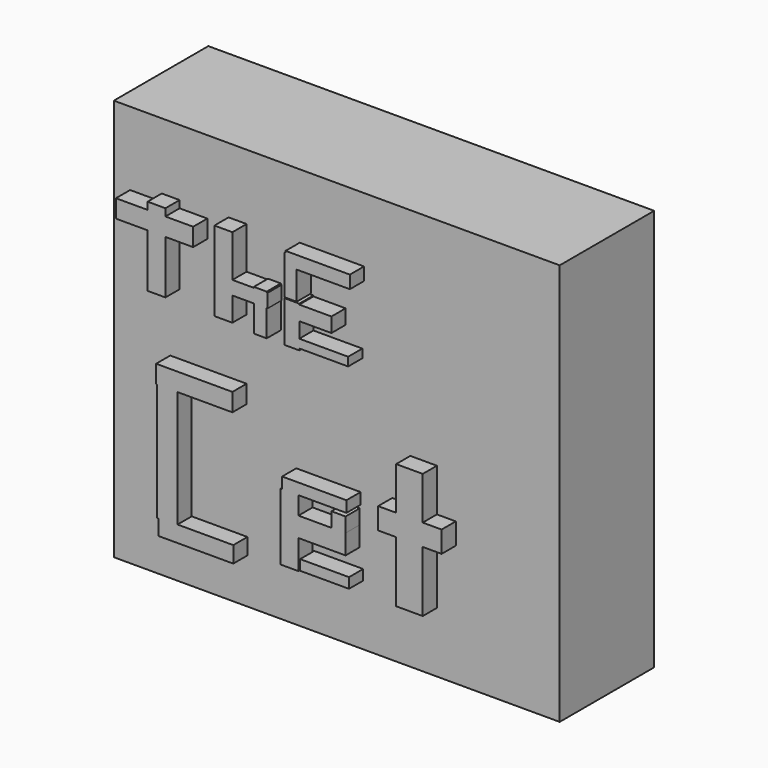
from build123d import *

# Parameters (mm, degrees)
F0_W      = 95.87875
F0_H      = 86.435549
F1_DEPTH  = 25.4
F2_W      = 3.831741
F2_H      = 16.888321
F22_DEPTH = 3.81
F4_W      = 3.871451
F4_H      = 17.145001
F23_DEPTH = 3.81
F6_W      = 2.765321
F6_H      = 8.849032
F24_DEPTH = 3.81
F3_W      = 16.604224
F3_H      = 3.865305
F25_DEPTH = 3.81
F5_W      = 11.43
F5_H      = 2.949677
F26_DEPTH = 3.81
F7_W      = 10.047339
F7_H      = 3.134032
F27_DEPTH = 3.81
F21_W     = 13.642261
F21_H     = 4.60887
F28_DEPTH = 3.81
F20_W     = 5.715003
F20_H     = 26.915808
F29_DEPTH = 3.81
F19_W     = 10.508227
F19_H     = 2.21226
F30_DEPTH = 3.81
F18_W     = 10.139517
F18_H     = 4.240159
F31_DEPTH = 3.81
F17_W     = 3.041856
F17_H     = 3.50274
F32_DEPTH = 3.81
F16_W     = 13.826613
F16_H     = 2.396613
F33_DEPTH = 3.81
F15_W     = 3.871451
F15_H     = 14.379678
F34_DEPTH = 3.81
F14_W     = 16.038871
F14_H     = 3.502741
F35_DEPTH = 3.81
F8_W      = 3.134032
F8_H      = 8.849032
F36_DEPTH = 3.81
F9_W      = 13.457904
F9_H      = 1.843549
F37_DEPTH = 3.81
F10_W     = 2.580968
F10_H     = 8.480324
F38_DEPTH = 3.81
F11_W     = 13.826613
F11_H     = 2.765322
F39_DEPTH = 3.81
F12_W     = 4.424516
F12_H     = 29.128066
F40_DEPTH = 3.81
F13_W     = 16.40758
F13_H     = 3.871451
F41_DEPTH = 3.81


with BuildPart() as f1:
    # F0 (on Front) → F1 (new body)
    with BuildSketch(Plane.XZ):
        with Locations((-1.902111, -7.113785)):
            Rectangle(F0_W, F0_H)
    extrude(amount=F1_DEPTH)

    # F2 (on face) → F22 (join)
    with BuildSketch(Plane.XZ.offset(25.4)):
        with Locations((-37.61089, 13.43617)):
            Rectangle(F2_W, F2_H)
    extrude(amount=F22_DEPTH)

    # F4 (on face) → F23 (join)
    with BuildSketch(Plane.XZ.offset(25.4)):
        with Locations((-23.22871, 13.457904)):
            Rectangle(F4_W, F4_H)
    extrude(amount=F23_DEPTH)

    # F6 (on face) → F24 (join)
    with BuildSketch(Plane.XZ.offset(25.4)):
        with Locations((-15.301452, 8.756855)):
            Rectangle(F6_W, F6_H)
    extrude(amount=F24_DEPTH)

    # F3 (on face) → F25 (join)
    with BuildSketch(Plane.XZ.offset(25.4)):
        with Locations((-38.03664, 18.385231)):
            Rectangle(F3_W, F3_H)
    extrude(amount=F25_DEPTH)

    # F5 (on face) → F26 (join)
    with BuildSketch(Plane.XZ.offset(25.4)):
        with Locations((-19.449435, 11.522177)):
            Rectangle(F5_W, F5_H)
    extrude(amount=F26_DEPTH)

    # F7 (on face) → F27 (join)
    with BuildSketch(Plane.XZ.offset(25.4)):
        with Locations((-5.023669, 11.43)):
            Rectangle(F7_W, F7_H)
    extrude(amount=F27_DEPTH)

    # F21 (on face) → F28 (join)
    with BuildSketch(Plane.XZ.offset(25.4)):
        with Locations((16.868469, -21.938225)):
            Rectangle(F21_W, F21_H)
    extrude(amount=F28_DEPTH)

    # F20 (on face) → F29 (join)
    with BuildSketch(Plane.XZ.offset(25.4)):
        with Locations((16.77629, -23.873953)):
            Rectangle(F20_W, F20_H)
    extrude(amount=F29_DEPTH)

    # F19 (on face) → F30 (join)
    with BuildSketch(Plane.XZ.offset(25.4)):
        with Locations((-1.474838, -36.225727)):
            Rectangle(F19_W, F19_H)
    extrude(amount=F30_DEPTH)

    # F18 (on face) → F31 (join)
    with BuildSketch(Plane.XZ.offset(25.4)):
        with Locations((-2.027902, -29.128065)):
            Rectangle(F18_W, F18_H)
    extrude(amount=F31_DEPTH)

    # F17 (on face) → F32 (join)
    with BuildSketch(Plane.XZ.offset(25.4)):
        with Locations((1.520928, -25.625323)):
            Rectangle(F17_W, F17_H)
    extrude(amount=F32_DEPTH)

    # F16 (on face) → F33 (join)
    with BuildSketch(Plane.XZ.offset(25.4)):
        with Locations((-3.687095, -21.938226)):
            Rectangle(F16_W, F16_H)
    extrude(amount=F33_DEPTH)

    # F15 (on face) → F34 (join)
    with BuildSketch(Plane.XZ.offset(25.4)):
        with Locations((-9.033386, -30.326371)):
            Rectangle(F15_W, F15_H)
    extrude(amount=F34_DEPTH)

    # F14 (on face) → F35 (join)
    with BuildSketch(Plane.XZ.offset(25.4)):
        with Locations((-29.128065, -38.898871)):
            Rectangle(F14_W, F14_H)
    extrude(amount=F35_DEPTH)

    # F8 (on face) → F36 (join)
    with BuildSketch(Plane.XZ.offset(25.4)):
        with Locations((-8.480323, 8.756855)):
            Rectangle(F8_W, F8_H)
    extrude(amount=F36_DEPTH)

    # F9 (on face) → F37 (join)
    with BuildSketch(Plane.XZ.offset(25.4)):
        with Locations((-3.134032, 5.622822)):
            Rectangle(F9_W, F9_H)
    extrude(amount=F37_DEPTH)

    # F10 (on face) → F38 (join)
    with BuildSketch(Plane.XZ.offset(25.4)):
        with Locations((-8.756855, 17.605888)):
            Rectangle(F10_W, F10_H)
    extrude(amount=F38_DEPTH)

    # F11 (on face) → F39 (join)
    with BuildSketch(Plane.XZ.offset(25.4)):
        with Locations((-2.949677, 20.832096)):
            Rectangle(F11_W, F11_H)
    extrude(amount=F39_DEPTH)

    # F12 (on face) → F40 (join)
    with BuildSketch(Plane.XZ.offset(25.4)):
        with Locations((-35.303952, -22.767824)):
            Rectangle(F12_W, F12_H)
    extrude(amount=F40_DEPTH)

    # F13 (on face) → F41 (join)
    with BuildSketch(Plane.XZ.offset(25.4)):
        with Locations((-29.496774, -10.139516)):
            Rectangle(F13_W, F13_H)
    extrude(amount=F41_DEPTH)


solid = f1.part
